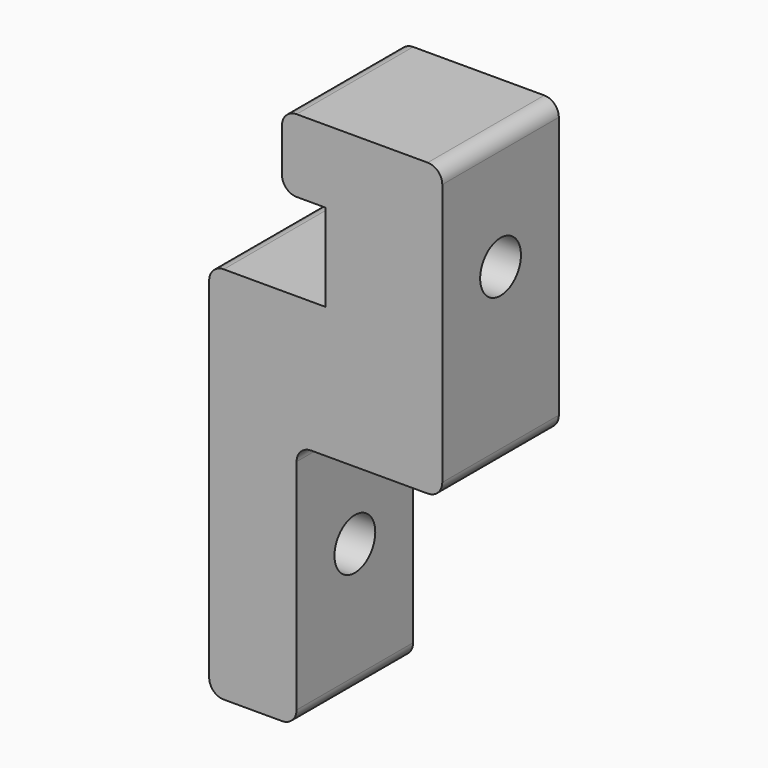
from build123d import *

# Parameters (mm, degrees)
F1_DEPTH = 10
F3_D     = 3.5
F4_R     = 1
F6_D     = 3.5


with BuildPart() as f1:
    # F0 (on Front) → F1 (new body)
    with BuildSketch(Plane.XZ):
        Polygon((-10, 0), (0, 0), (0, 20), (-11, 20), (-11, 15), (-8, 15), (-8, 9), (-16, 9), (-16, -17), (-10, -17), align=None)
    extrude(amount=F1_DEPTH)

    # F3 (through all)
    with Locations(Plane(origin=(-8, 0, 0), x_dir=(0, -1, 0), z_dir=(-1, 0, 0))):
        with Locations((5, 12)):
            Hole(F3_D / 2)

    # F4
    f4_edges = [f1.edges().sort_by_distance(p)[0] for p in [
        (-11, -5, 20),
        (-11, -5, 15),
        (-16, -5, 9),
        (-16, -5, -17),
        (-10, -5, -17),
        (-10, -5, 0),
        (0, -5, 0),
        (0, -5, 20),
    ]]
    fillet(f4_edges, radius=F4_R)

    # F6 (through all)
    with Locations(Plane(origin=(-16, 0, 0), x_dir=(0, -1, 0), z_dir=(-1, 0, 0))):
        with Locations((5, -8)):
            Hole(F6_D / 2)


solid = f1.part
